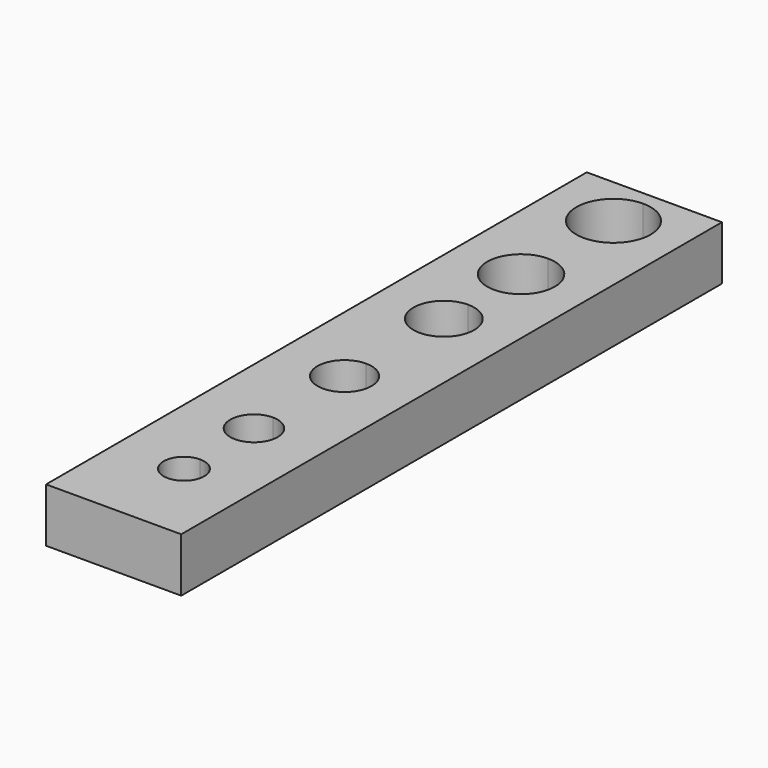
from build123d import *

# Parameters (mm, degrees)
F0_W     = 10
F0_H     = 50
F1_DEPTH = 4
F3_DEPTH = 4.001


with BuildPart() as f1:
    # F0 (on Top) → F1 (new body)
    with BuildSketch(Plane.XY):
        with Locations((5, 25)):
            Rectangle(F0_W, F0_H)
    extrude(amount=F1_DEPTH)

    # F2 (on face) → F3 (cut, through all)
    with BuildSketch(Plane.XY.offset(4)):
        with BuildLine():
            ThreePointArc((5, 5), (6.06066, 5.43934), (6.5, 6.5))
            ThreePointArc((6.5, 6.5), (6.06066, 7.56066), (5, 8))
            Line((5, 8), (5, 5))
        make_face()
        with BuildLine():
            ThreePointArc((5, 48.97335), (2.25, 46.22335), (5, 43.47335))
            Line((5, 43.47335), (5, 48.97335))
        make_face()
        with BuildLine():
            Line((5, 48.97335), (5, 43.47335))
            ThreePointArc((5, 43.47335), (6.944544, 44.278806), (7.75, 46.22335))
            ThreePointArc((7.75, 46.22335), (6.944544, 48.167894), (5, 48.97335))
        make_face()
        with BuildLine():
            ThreePointArc((5, 40.173719), (2.5, 37.673719), (5, 35.173719))
            Line((5, 35.173719), (5, 40.173719))
        make_face()
        with BuildLine():
            Line((5, 40.173719), (5, 35.173719))
            ThreePointArc((5, 35.173719), (6.767767, 35.905952), (7.5, 37.673719))
            ThreePointArc((7.5, 37.673719), (6.767767, 39.441486), (5, 40.173719))
        make_face()
        with BuildLine():
            ThreePointArc((5, 32.784836), (2.75, 30.534836), (5, 28.284836))
            Line((5, 28.284836), (5, 32.784836))
        make_face()
        with BuildLine():
            Line((5, 32.784836), (5, 28.284836))
            ThreePointArc((5, 28.284836), (6.59099, 28.943845), (7.25, 30.534836))
            ThreePointArc((7.25, 30.534836), (6.59099, 32.125826), (5, 32.784836))
        make_face()
        with BuildLine():
            ThreePointArc((5, 23.35), (3, 21.35), (5, 19.35))
            Line((5, 19.35), (5, 23.35))
        make_face()
        with BuildLine():
            Line((5, 23.35), (5, 19.35))
            ThreePointArc((5, 19.35), (6.414214, 19.935786), (7, 21.35))
            ThreePointArc((7, 21.35), (6.414214, 22.764214), (5, 23.35))
        make_face()
        with BuildLine():
            ThreePointArc((5, 14.724094), (3.25, 12.974094), (5, 11.224094))
            Line((5, 11.224094), (5, 14.724094))
        make_face()
        with BuildLine():
            Line((5, 14.724094), (5, 11.224094))
            ThreePointArc((5, 11.224094), (6.237437, 11.736657), (6.75, 12.974094))
            ThreePointArc((6.75, 12.974094), (6.237437, 14.211531), (5, 14.724094))
        make_face()
        with BuildLine():
            Line((5, 5), (5, 8))
            ThreePointArc((5, 8), (3.5, 6.5), (5, 5))
        make_face()
    extrude(amount=-F3_DEPTH, mode=Mode.SUBTRACT)


solid = f1.part
